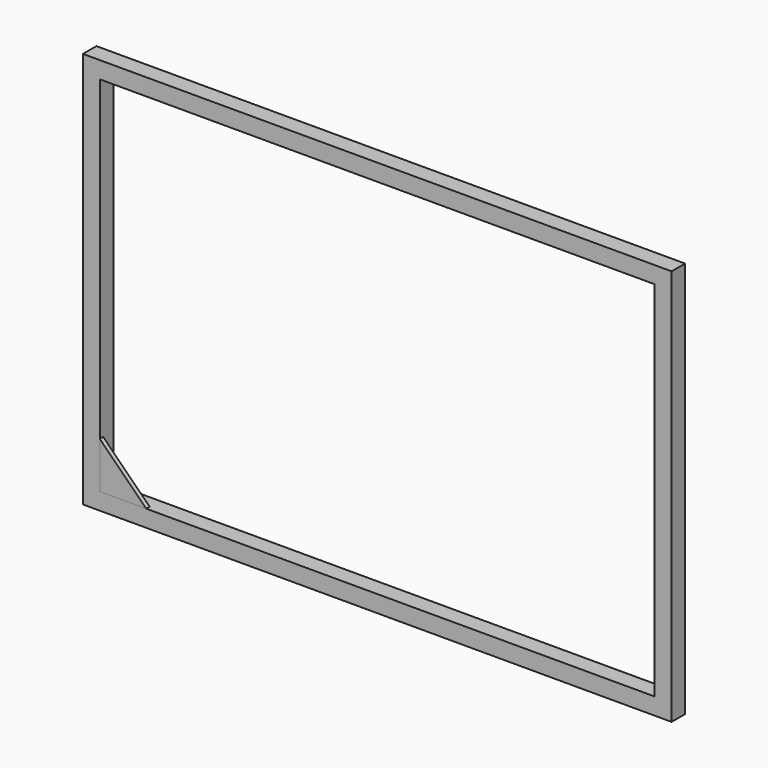
from build123d import *

# Parameters (mm, degrees)
F0_W     = 885.825
F0_H     = 596.9
F0_W_2   = 835.025
F0_H_2   = 546.1
F1_DEPTH = 25.4
F3_DEPTH = 6.35


with BuildPart() as f1:
    # F0 (on Front) → F1 (new body)
    with BuildSketch(Plane.XZ):
        with Locations((442.9125, 298.45)):
            Rectangle(F0_W, F0_H)
        with Locations((442.9125, 298.45)):
            Rectangle(F0_W_2, F0_H_2, mode=Mode.SUBTRACT)
    extrude(amount=F1_DEPTH)


with BuildPart() as f3:
    # F2 (on face) → F3 (new body)
    with BuildSketch(Plane.XZ.offset(25.4)):
        Polygon((25.4, 95.25), (25.4, 25.4), (95.25, 25.4), align=None)
    extrude(amount=-F3_DEPTH)


solid = Compound([f1.part, f3.part])
